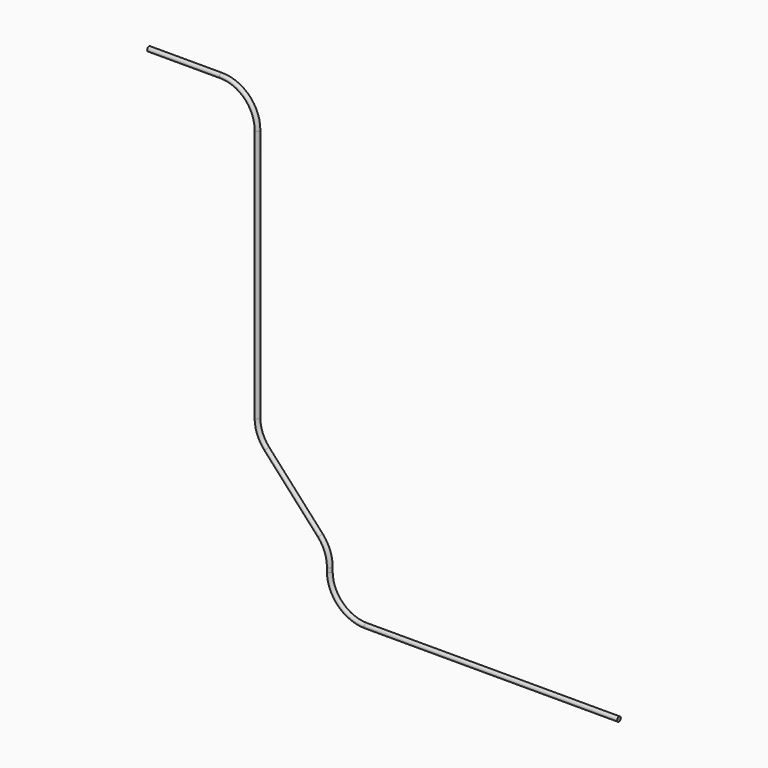
from build123d import *

# Parameters (mm, degrees)
F1_R = 1.5875


with BuildPart() as f2:
    # F2: sweep along a path in F0
    with BuildLine(Plane.XZ) as f2_path:
        Line((0, 0), (-177.8, 0))
        ThreePointArc((-177.8, 0), (-195.760512, 7.439488), (-203.2, 25.4))
        Line((-203.2, 25.4), (-203.2, 28.280185))
        ThreePointArc((-203.2, 28.280185), (-204.908865, 37.439341), (-209.805522, 45.366074))
        Line((-209.805522, 45.366074), (-247.394478, 86.713926))
        ThreePointArc((-247.394478, 86.713926), (-252.291135, 94.640659), (-254, 103.799815))
        Line((-254, 103.799815), (-254, 281.814138))
        ThreePointArc((-254, 281.814138), (-261.439488, 299.77465), (-279.4, 307.214138))
        Line((-279.4, 307.214138), (-330.2, 307.214138))
    # F1 (on Right) → F2 (sweep)
    with BuildSketch(Plane.YZ):
        Circle(F1_R)
    sweep(path=f2_path.line)


solid = f2.part
